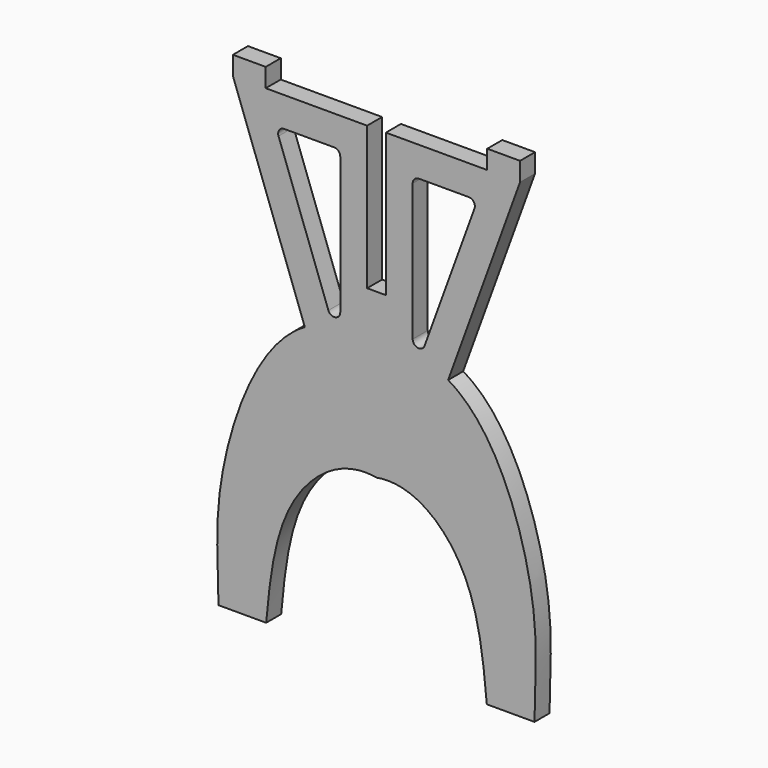
from build123d import *

# Parameters (mm, degrees)
F1_DEPTH = 20
F3_DEPTH = 25
F4_W     = 34.93
F4_H     = 20
F5_DEPTH = 20
F7_R     = 6.5


with BuildPart() as f1:
    # F0 (on Front) → F1 (new body)
    with BuildSketch(Plane.XZ):
        with BuildLine():
            Line((-10, 348.62), (-10, 501.02))
            Line((-10, 501.02), (-152.88, 501.02))
            Line((-152.88, 501.02), (-76.2948495065, 290.6040283536))
            add(Edge.make_bspline(
                [(-168.28, 0), (-169.5612237815, 52.4820648973), (-175.1232380622, 123.1405186652), (-124.7166168032, 262.8128105239), (-76.2948495065, 290.6040283536)],
                knots=[0, 0, 0, 0, 0.4616253265, 1, 1, 1, 1], degree=3))
            Line((-168.28, 0), (-117.48, 0))
            add(Edge.make_bspline(
                [(-117.48, 0), (-113.0349605269, 49.0087788879), (-103.2300113011, 130.3097354433), (-35.7976257801, 180.8740645647), (0, 174.31)],
                knots=[0, 0, 0, 0, 0.5366116544, 1, 1, 1, 1], degree=3))
            Line((0, 174.31), (0, 348.62))
            Line((0, 348.62), (-10, 348.62))
        make_face()
    extrude(amount=F1_DEPTH)

    # F2 (on face) → F3 (cut)
    with BuildSketch(Plane.XZ):
        Polygon((-38.58, 279.8141206615), (-38.58, 469.27), (-107.5363007859, 469.27), align=None)
    extrude(amount=F3_DEPTH, mode=Mode.SUBTRACT)

    # F4 (on face) → F5 (join)
    with BuildSketch(Plane.XY.offset(501.02)):
        with Locations((-135.415, -10)):
            Rectangle(F4_W, F4_H)
    extrude(amount=F5_DEPTH)

    # F6: F1 across plane


with BuildPart() as f1_1:
    add(f1.part)
    add(f1.part.mirror(Plane.YZ))

    # F7
    f7_edges = [f1_1.edges().sort_by_distance(p)[0] for p in [
        (-107.536301, -10, 469.27),
        (-38.58, -10, 469.27),
        (-38.58, -10, 279.814121),
        (38.58, -10, 279.814121),
        (38.58, -10, 469.27),
        (107.536301, -10, 469.27),
    ]]
    fillet(f7_edges, radius=F7_R)


solid = f1_1.part
